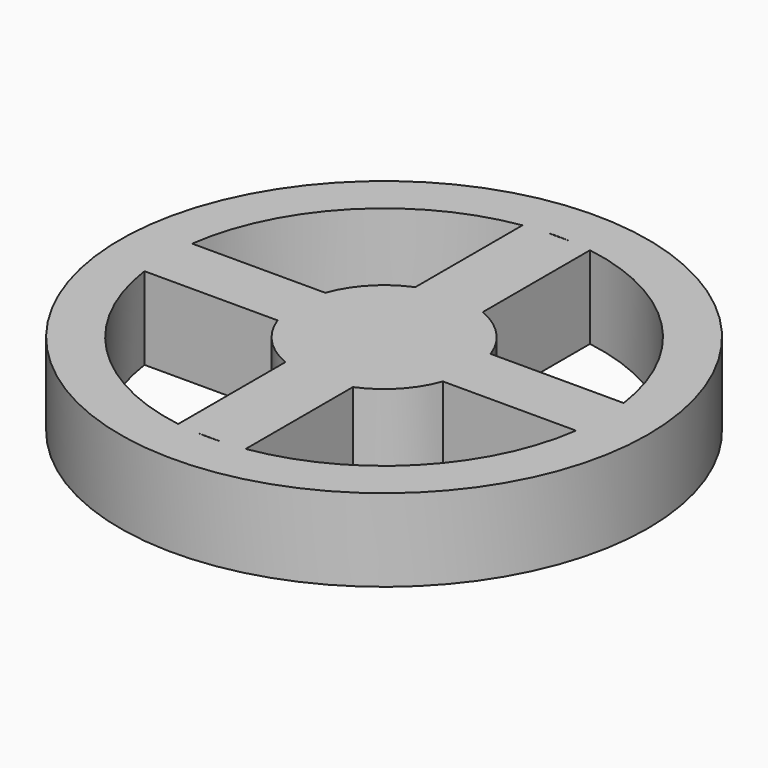
from build123d import *

# Parameters (mm, degrees)
F0_R     = 63.9996610984
F0_R_2   = 52.8119822493
F1_DEPTH = 20
F2_R     = 21.3194523792
F3_DEPTH = 20
F5_W     = 44.8123216629
F5_H     = 14.4665837288
F4_W     = 16.3650214672
F4_H     = 105.4660975933
F6_DEPTH = 20


with BuildPart() as f1:
    # F0 (on Top) → F1 (new body)
    with BuildSketch(Plane.XY):
        Circle(F0_R)
        Circle(F0_R_2, mode=Mode.SUBTRACT)
    extrude(amount=F1_DEPTH)



with BuildPart() as f3:
    # F2 (on Top) → F3 (new body)
    with BuildSketch(Plane.XY):
        Circle(F2_R)
    extrude(amount=F3_DEPTH)


with BuildPart() as f1_1:
    add(f1.part)

    add(f3.part)  # F6 merges F3
    # F5 (on face) + F4 (on Top) → F6 (join)
    with BuildSketch(Plane.XY):
        with Locations((-30.5886715651, 0)):
            Rectangle(F5_W, F5_H)
        with Locations((30.5886715651, 0)):
            Rectangle(F5_W, F5_H)
    with BuildSketch(Plane.XY):
        Rectangle(F4_W, F4_H)
    extrude(amount=F6_DEPTH)


solid = f1_1.part
